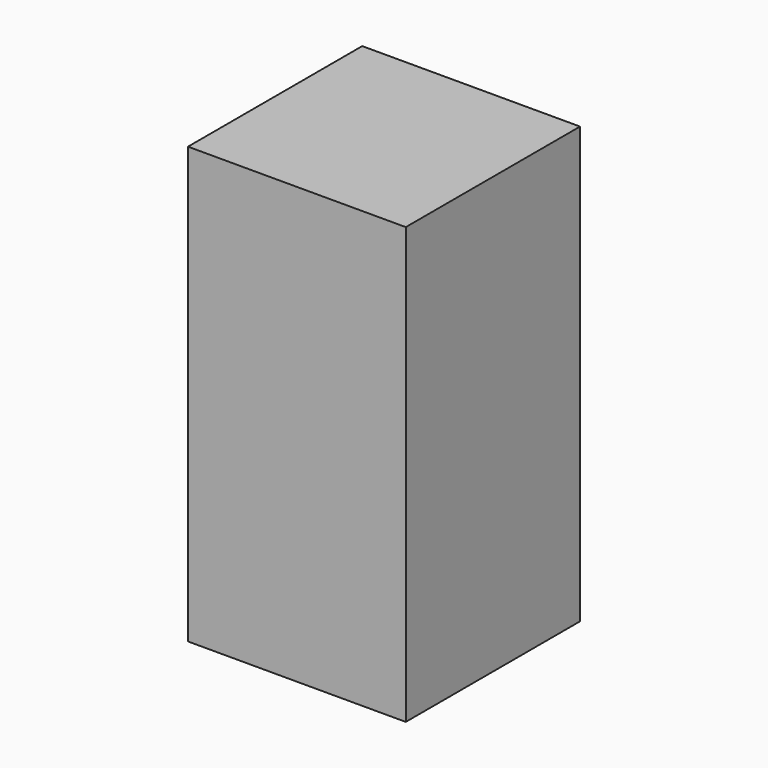
from build123d import *

# Parameters (mm, degrees)
SKETCH_W      = 25
SKETCH_H      = 25
EXTRUDE_DEPTH = 50


with BuildPart() as part:
    # Sketch → Extrude (new body)
    with BuildSketch(Plane.XY):
        Rectangle(SKETCH_W, SKETCH_H)
    extrude(amount=EXTRUDE_DEPTH)


solid = part.part
